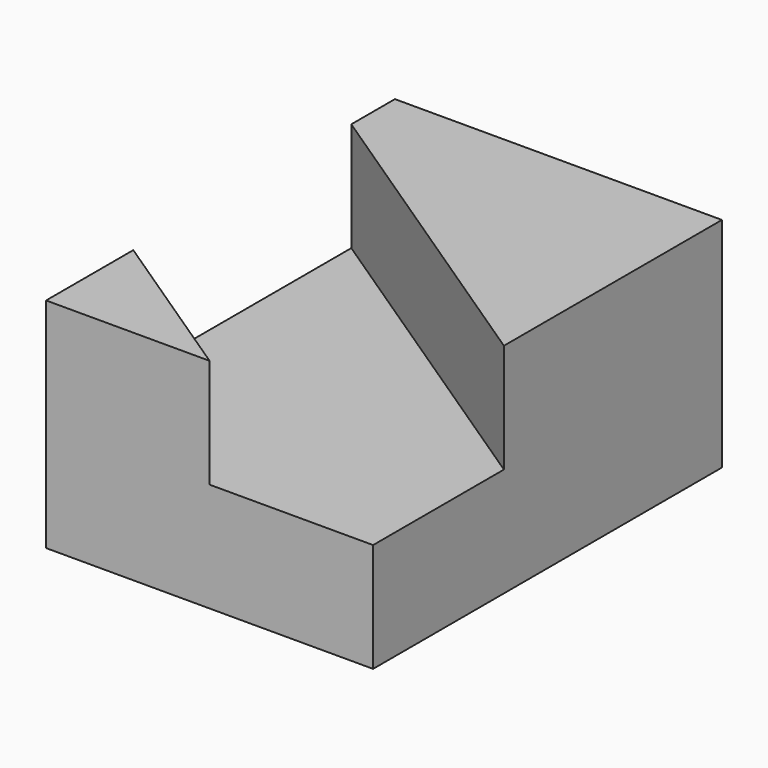
from build123d import *

# Parameters (mm, degrees)
F0_W     = 38.1
F0_H     = 50.8
F1_DEPTH = 25.4
F3_DEPTH = 12.7


with BuildPart() as f1:
    # F0 (on Top) → F1 (new body)
    with BuildSketch(Plane.XY):
        with Locations((19.05, 25.4)):
            Rectangle(F0_W, F0_H)
    extrude(amount=F1_DEPTH)

    # F2 (on face) → F3 (cut)
    with BuildSketch(Plane.XY.offset(25.4)):
        Polygon((38.1, 19.05), (0, 44.45), (0, 12.7), (19.05, 0), (38.1, 0), align=None)
    extrude(amount=-F3_DEPTH, mode=Mode.SUBTRACT)


solid = f1.part
